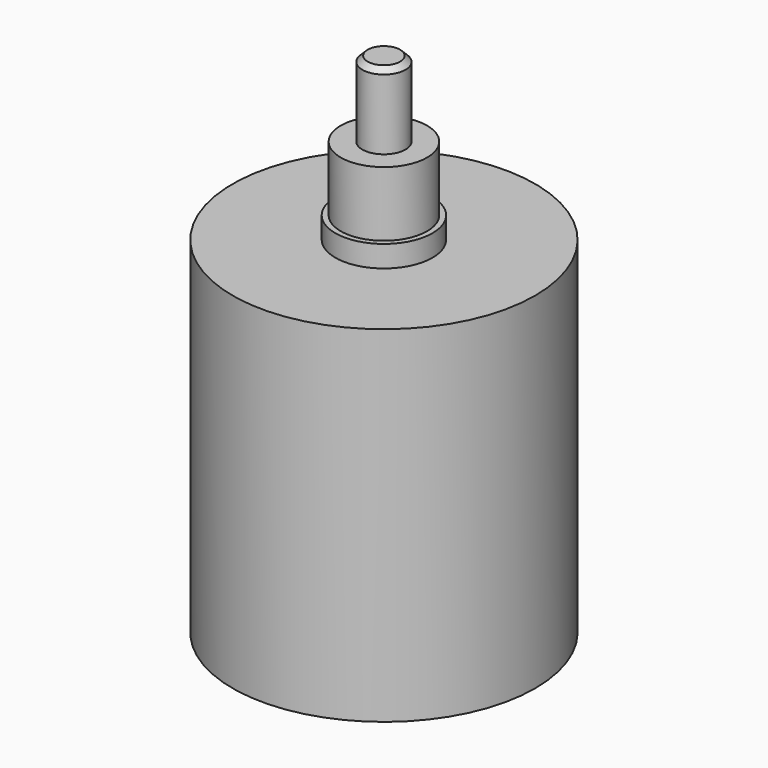
from build123d import *

# Parameters (mm, degrees)
F0_R      = 14
F1_DEPTH  = 32
F2_R      = 4.5
F3_DEPTH  = 2
F4_R      = 2
F5_DEPTH  = 13
F6_SIZE   = 0.5
F7_R      = 2
F8_DEPTH  = 5
F10_R     = 4
F11_DEPTH = 6


with BuildPart() as f1:
    # F0 (on Top) → F1 (new body)
    with BuildSketch(Plane.XY):
        Circle(F0_R)
    extrude(amount=F1_DEPTH)

    # F2 (on face) → F3 (join)
    with BuildSketch(Plane.XY.offset(32)):
        Circle(F2_R)
    extrude(amount=F3_DEPTH)

    # F4 (on face) → F5 (join)
    with BuildSketch(Plane.XY.offset(34)):
        Circle(F4_R)
    extrude(amount=F5_DEPTH)

    # F6
    f6_edges = [f1.edges().sort_by_distance(p)[0] for p in [
        (-2, 0, 47),
    ]]
    chamfer(f6_edges, length=F6_SIZE)

    # F7 (on face) → F8 (cut)
    with BuildSketch(Plane(origin=(0, 0, 0), x_dir=(1, 0, 0), z_dir=(0, 0, -1))):
        with Locations((-8, 0)):
            Circle(F7_R)
        with Locations((8, 0)):
            Circle(F7_R)
        with Locations((0, 9.5)):
            Circle(F7_R)
        with Locations((0, -9.5)):
            Circle(F7_R)
    extrude(amount=-F8_DEPTH, mode=Mode.SUBTRACT)

    # F10 (on face) → F11 (join)
    with BuildSketch(Plane.XY.offset(34)):
        Circle(F10_R)
    extrude(amount=F11_DEPTH)


solid = f1.part
